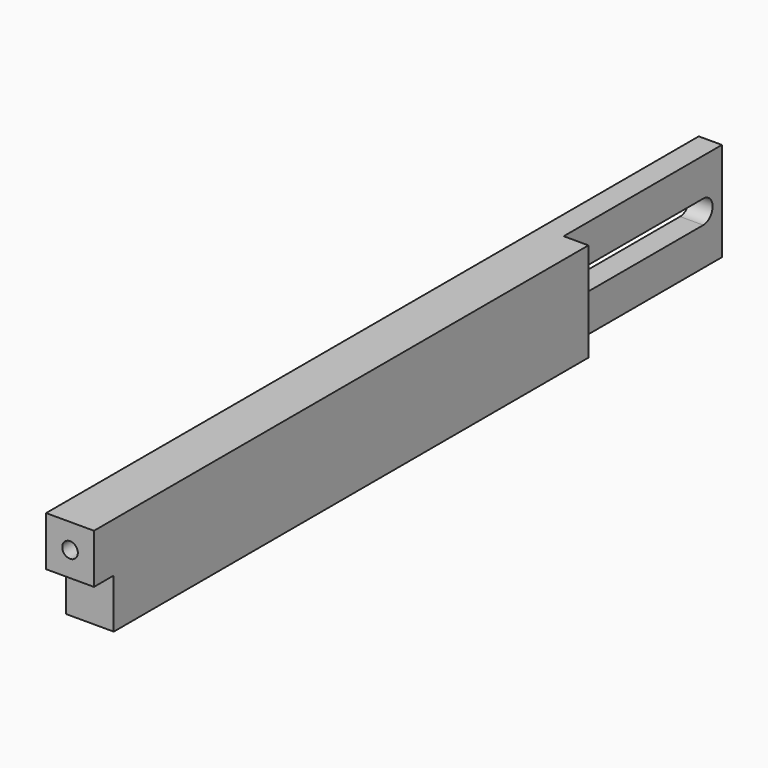
from build123d import *

# Parameters (mm, degrees)
SKETCH009_W     = 12.3
SKETCH009_H     = 209.55
PAD002_DEPTH    = 25.4
SKETCH010_W     = 12.3
SKETCH010_H     = 6.35
POCKET007_DEPTH = 12.7
SKETCH011_R     = 2
POCKET008_DEPTH = 10
SKETCH012_W     = 6.35
SKETCH012_H     = 50.8
POCKET009_DEPTH = 25.401
POCKET010_DEPTH = 5.951


with BuildPart() as part:
    # Sketch009 → Pad002 (new body)
    with BuildSketch(Plane.XY):
        with Locations((-82.55, 111.125)):
            Rectangle(SKETCH009_W, SKETCH009_H)
    extrude(amount=PAD002_DEPTH)

    # Sketch010 (on Face5 of Pad002) → Pocket007 (cut)
    with BuildSketch(Plane(origin=(0, 0, 0), x_dir=(1, 0, 0), z_dir=(0, 0, -1))):
        with Locations((-82.55, -9.525)):
            Rectangle(SKETCH010_W, SKETCH010_H)
    extrude(amount=-POCKET007_DEPTH, mode=Mode.SUBTRACT)

    # Sketch011 (on Face1 of Pocket007) → Pocket008 (cut)
    with BuildSketch(Plane.XZ.offset(-6.35)):
        with Locations((-82.55, 19.05)):
            Circle(SKETCH011_R)
    extrude(amount=-POCKET008_DEPTH, mode=Mode.SUBTRACT)

    # Sketch012 (on Face5 of Pocket008) → Pocket009 (cut, through all)
    with BuildSketch(Plane.XY.offset(25.4)):
        with Locations((-79.575, 190.5)):
            Rectangle(SKETCH012_W, SKETCH012_H)
    extrude(amount=-POCKET009_DEPTH, mode=Mode.SUBTRACT)

    # Sketch013 (on Face11 of Pocket009) → Pocket010 (cut, through all)
    with BuildSketch(Plane.YZ.offset(-82.75)):
        with BuildLine():
            Line((171.1, 15.7), (209.9, 15.7))
            ThreePointArc((209.9, 9.7), (212.9, 12.7), (209.9, 15.7))
            Line((209.9, 9.7), (171.1, 9.7))
            ThreePointArc((171.1, 15.7), (168.1, 12.7), (171.1, 9.7))
        make_face()
    extrude(amount=-POCKET010_DEPTH, mode=Mode.SUBTRACT)


solid = part.part
